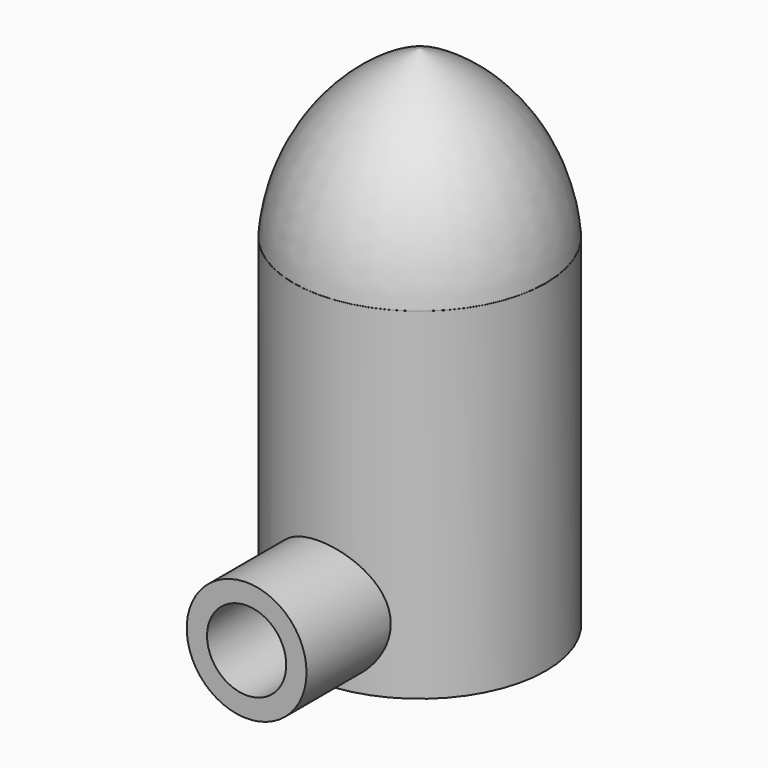
from build123d import *

# Parameters (mm, degrees)
F0_R     = 16.298534
F0_R_2   = 14.3383
F1_DEPTH = 44.069
F2_R     = 7.7343
F3_DEPTH = 27.94
F4_R     = 7.960933
F5_DEPTH = 13.97
F6_R     = 5.11277
F7_DEPTH = 25.4


with BuildPart() as f1:
    # F0 (on Top) → F1 (new body)
    with BuildSketch(Plane.XY):
        Circle(F0_R)
        Circle(F0_R_2, mode=Mode.SUBTRACT)
    extrude(amount=F1_DEPTH)

    # F2 (on Front) → F3 (join)
    with BuildSketch(Plane.XZ):
        with Locations((0, 8.382)):
            Circle(F2_R)
    extrude(amount=F3_DEPTH)

    # F4 (on face) → F5 (cut)
    with BuildSketch(Plane(origin=(0, 0, 0), x_dir=(-1, 0, 0), z_dir=(0, 1, 0))):
        with Locations((0, 8.382)):
            Circle(F4_R)
    extrude(amount=-F5_DEPTH, mode=Mode.SUBTRACT)

    # F6 (on face) → F7 (cut)
    with BuildSketch(Plane(origin=(0, -13.97, 0), x_dir=(-1, 0, 0), z_dir=(0, 1, 0))):
        with Locations((0, 8.382)):
            Circle(F6_R)
    extrude(amount=-F7_DEPTH, mode=Mode.SUBTRACT)

    # F8 (on Right) → F9 (revolve)
    with BuildSketch(Plane.YZ):
        with BuildLine():
            Line((-16.282385, 43.947611), (0, 43.947611))
            Line((0, 43.947611), (0, 65.465011))
            ThreePointArc((0, 65.465011), (-11.352979, 57.136695), (-16.282385, 43.947611))
        make_face()
    revolve(axis=Axis((0, 0, 54.706311), (0, 0, -1)))


solid = f1.part
